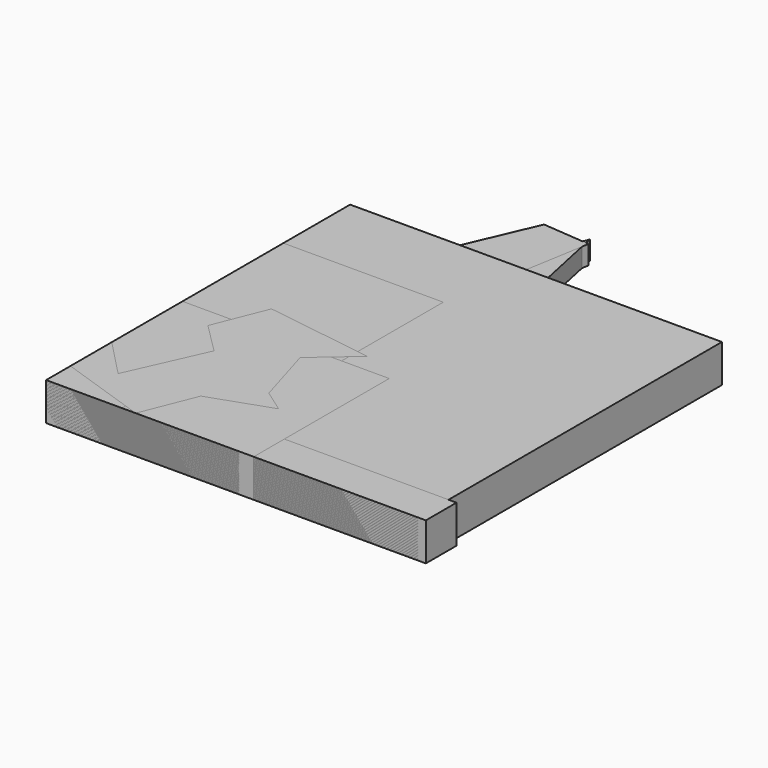
from build123d import *

# Parameters (mm, degrees)
PAD_DEPTH               = 10
PAD001_DEPTH            = 10
PAD002_DEPTH            = 10
PAD003_DEPTH            = 5
PAD004_DEPTH            = 5
PAD005_DEPTH            = 5
SKETCH006_W             = 17.330512
SKETCH006_H             = 14.988543
PAD006_DEPTH            = 10
PAD007_DEPTH            = 5
BODY006_PLACEMENT_ANGLE = 180
PAD008_DEPTH            = 5
PAD014_DEPTH            = 10
PAD011_DEPTH            = 10
PAD012_DEPTH            = 10
PAD013_DEPTH            = 10
PAD009_DEPTH            = 10
PAD010_DEPTH            = 10
PAD015_DEPTH            = 10
PAD016_DEPTH            = 10
PAD017_DEPTH            = 10
SKETCH018_W             = 100.185661
SKETCH018_H             = 10.112617
PAD025_DEPTH            = 10
SKETCH030_W             = 29.960587
SKETCH030_H             = 30.027189
PAD024_DEPTH            = 10
SKETCH021_W             = 49.87516
SKETCH021_H             = 40.159164
PAD019_DEPTH            = 10
SKETCH019_W             = 50.923298
SKETCH019_H             = 49.592381
PAD029_DEPTH            = 10
SKETCH025_W             = 54.766457
SKETCH025_H             = 44.701084
PAD023_DEPTH            = 10
SKETCH028_W             = 29.960587
SKETCH028_H             = 30.027189
PAD027_DEPTH            = 10
SKETCH022_W             = 98.089394
SKETCH022_H             = 100.252266
PAD030_DEPTH            = 10
SKETCH026_W             = 49.87516
SKETCH026_H             = 40.159164
PAD022_DEPTH            = 10
SKETCH027_W             = 98.089394
SKETCH027_H             = 100.252266
PAD026_DEPTH            = 10
SKETCH029_W             = 29.960587
SKETCH029_H             = 30.027189
PAD021_DEPTH            = 10
SKETCH024_W             = 100.185661
SKETCH024_H             = 10.112617
PAD031_DEPTH            = 10
SKETCH031_W             = 42.188831
SKETCH031_H             = 78.241425
PAD018_DEPTH            = 10
SKETCH023_W             = 54.766457
SKETCH023_H             = 44.701084
PAD028_DEPTH            = 10
SKETCH020_W             = 20.015697
SKETCH020_H             = 44.976456
PAD020_DEPTH            = 10
PAD032_DEPTH            = 10
PAD035_DEPTH            = 5
PAD033_DEPTH            = 5
PAD037_DEPTH            = 5
PAD036_DEPTH            = 5
PAD034_DEPTH            = 5
PAD038_DEPTH            = 5


with BuildPart() as body:
    # Sketch → Pad (new body)
    with BuildSketch(Plane.XY):
        Polygon((18.167238, -26.824047), (31.159077, -8.870737), (29.571237, 13.23329), (14.146687, 29.145313), (-7.897255, 31.41992), (-26.245984, 18.992798), (-32.313925, -2.321266), (-23.261822, -22.549184), (-3.325253, -32.226088), align=None)
    extrude(amount=PAD_DEPTH)


with BuildPart() as body_1:
    # Body placement: moved
    add(body.part.moved(Location((32.313925, 32.226088, 0))))


with BuildPart() as body001:
    # Sketch001 → Pad001 (new body)
    with BuildSketch(Plane.XY):
        Polygon((-14.146512, 4.385867), (-14.444172, -3.274984), (-10.871528, -10.058305), (-4.385867, -14.146512), (3.274984, -14.444172), (10.058305, -10.871528), (14.146512, -4.385867), (14.444172, 3.274984), (10.871528, 10.058305), (4.385867, 14.146512), (-3.274984, 14.444172), (-10.058305, 10.871528), align=None)
    extrude(amount=PAD001_DEPTH)


with BuildPart() as body001_1:
    # Body001 placement: moved
    add(body001.part.moved(Location((14.444172, 14.444172, 0))))


with BuildPart() as body002:
    # Sketch002 → Pad002 (new body)
    with BuildSketch(Plane.XY):
        Polygon((5.168737, 19.66088), (-4.125931, 19.882535), (-12.707188, 16.304545), (-19.091257, 9.545577), (-22.174274, 0.774318), (-21.423157, -8.492602), (-16.967783, -16.652849), (-9.578524, -22.29544), (-0.533051, -24.444722), (8.60459, -22.729063), (16.25442, -17.445117), (21.093714, -9.506527), (22.285712, -0.285945), (19.624308, 8.622305), (13.569683, 15.677905), align=None)
    extrude(amount=PAD002_DEPTH)


with BuildPart() as body002_1:
    # Body002 placement: moved
    add(body002.part.moved(Location((22.174274, 24.444722, 0))))


with BuildPart() as body003:
    # Sketch003 → Pad003 (new body)
    with BuildSketch(Plane.XY):
        Polygon((7.399518, 7.664609), (-10.337505, 2.575866), (2.937987, -10.240475), align=None)
    extrude(amount=PAD003_DEPTH)


with BuildPart() as body003_1:
    # Body003 placement: moved
    add(body003.part.moved(Location((10.337505, 10.240475, 0))))


with BuildPart() as body004:
    # Sketch004 → Pad004 (new body)
    with BuildSketch(Plane.XY):
        Polygon((0, 10.25955), (-8.885031, -5.129775), (8.885031, -5.129775), align=None)
    extrude(amount=PAD004_DEPTH)


with BuildPart() as body004_1:
    # Body004 placement: moved
    add(body004.part.moved(Location((8.885031, 5.129775, 0))))


with BuildPart() as body005:
    # Sketch005 → Pad005 (new body)
    with BuildSketch(Plane.XY):
        Polygon((8.917991, 0), (13.337694, 8.722222), (4.077364, 17.140703), (-8.024202, 17.140703), (-17.600224, 1.776977), (-4.762044, -10.850743), (0.920433, -10.850743), align=None)
    extrude(amount=PAD005_DEPTH)


with BuildPart() as body005_1:
    # Body005 placement: moved
    add(body005.part.moved(Location((17.600224, 10.850743, 0))))


with BuildPart() as body006:
    # Sketch006 → Pad006 (new body)
    with BuildSketch(Plane.XY):
        with Locations((-1.850273, 0.820157)):
            Rectangle(SKETCH006_W, SKETCH006_H)
    extrude(amount=PAD006_DEPTH)

    # Sketch007 → Pad007 (join)
    with BuildSketch(Plane.XY):
        Polygon((10.019646, 10.457861), (4.573891, 15.162398), (-2.314561, 17.24522), (-9.454634, 16.346186), (-15.611746, 12.620748), (-19.721276, 6.713068), (-21.072648, -0.355362), (-19.432198, -7.362347), (-15.083575, -13.096315), (-8.778695, -16.565812), (-1.60773, -17.170929), (5.189397, -14.807036), (10.437399, -9.882873), (13.22885, -3.24987), (13.081082, 3.945064), align=None)
    extrude(amount=PAD007_DEPTH)


with BuildPart() as body006_1:
    # Body006 placement: moved
    add(body006.part.moved(Location((13.22885, 17.24522, 0))).rotate(Axis((13.22885, 17.24522, 0), (0, 0, 1)), BODY006_PLACEMENT_ANGLE))


with BuildPart() as body007:
    # Sketch008 → Pad008 (new body)
    with BuildSketch(Plane.XY):
        Polygon((7.007695, -11.784118), (11.767051, -2.863674), (10.374145, 7.150596), (3.361021, 14.433582), (-6.593548, 16.203429), (-15.687253, 11.784118), (-20.446609, 2.863674), (-19.053703, -7.150596), (-12.040579, -14.433582), (-2.086011, -16.203429), align=None)
    extrude(amount=PAD008_DEPTH)


with BuildPart() as body007_1:
    # Body007 placement: moved
    add(body007.part.moved(Location((20.446609, 16.203429, 0))))


with BuildPart() as body008:
    # Sketch010 → Pad014 (new body)
    with BuildSketch(Plane.XY):
        Polygon((0, 0), (-11.495134, 26.22936), (-28.462859, 3.159603), align=None)
    extrude(amount=PAD014_DEPTH)


with BuildPart() as body008_1:
    # Body008 placement: moved
    add(body008.part.moved(Location((28.462859, 0, 0))))


with BuildPart() as body009:
    # Sketch012 → Pad011 (new body)
    with BuildSketch(Plane.XY):
        Polygon((0, 0), (27.073405, 30.548265), (-12.918871, 38.720389), align=None)
    extrude(amount=PAD011_DEPTH)


with BuildPart() as body009_1:
    # Body009 placement: moved
    add(body009.part.moved(Location((12.918871, 0, 0))))


with BuildPart() as body010:
    # Sketch013 → Pad012 (new body)
    with BuildSketch(Plane.XY):
        Polygon((0, 0), (-29.562009, -6.185213), (-9.424453, -28.694057), align=None)
    extrude(amount=PAD012_DEPTH)


with BuildPart() as body010_1:
    # Body010 placement: moved
    add(body010.part.moved(Location((29.562009, 28.694057, 0))))


with BuildPart() as body011:
    # Sketch014 → Pad013 (new body)
    with BuildSketch(Plane.XY):
        Polygon((0, 0), (-13.660303, -63.548782), (48.204708, -43.604561), align=None)
    extrude(amount=PAD013_DEPTH)


with BuildPart() as body011_1:
    # Body011 placement: moved
    add(body011.part.moved(Location((13.660303, 63.548782, 0))))


with BuildPart() as body012:
    # Sketch009 → Pad009 (new body)
    with BuildSketch(Plane.XY):
        Polygon((0, 0), (45.987872, 5.648683), (18.102033, 42.651007), align=None)
    extrude(amount=PAD009_DEPTH)


with BuildPart() as body013:
    # Sketch011 → Pad010 (new body)
    with BuildSketch(Plane.XY):
        Polygon((0, 0), (8.205842, -24.465275), (25.290471, -5.12617), align=None)
    extrude(amount=PAD010_DEPTH)


with BuildPart() as body013_1:
    # Body013 placement: moved
    add(body013.part.moved(Location((0, 24.465275, 0))))


with BuildPart() as body014:
    # Sketch015 → Pad015 (new body)
    with BuildSketch(Plane.XY):
        Polygon((0, 0), (-31.835562, 11.811761), (-26.147066, -21.664525), align=None)
    extrude(amount=PAD015_DEPTH)


with BuildPart() as body014_1:
    # Body014 placement: moved
    add(body014.part.moved(Location((31.835562, 21.664525, 0))))


with BuildPart() as body015:
    # Sketch016 → Pad016 (new body)
    with BuildSketch(Plane.XY):
        Polygon((0, 0), (-31.835562, 11.811761), (-26.147066, -21.664525), align=None)
    extrude(amount=PAD016_DEPTH)


with BuildPart() as body015_1:
    # Body015 placement: moved
    add(body015.part.moved(Location((31.835562, 21.664525, 0))))


with BuildPart() as body016:
    # Sketch017 → Pad017 (new body)
    with BuildSketch(Plane.XY):
        Polygon((0, 0), (-31.835562, 11.811761), (-26.147066, -21.664525), align=None)
    extrude(amount=PAD017_DEPTH)


with BuildPart() as body016_1:
    # Body016 placement: moved
    add(body016.part.moved(Location((31.835562, 21.664525, 0))))


with BuildPart() as body017:
    # Sketch018 → Pad025 (new body)
    with BuildSketch(Plane.XY):
        with Locations((50.09283, 5.056309)):
            Rectangle(SKETCH018_W, SKETCH018_H)
    extrude(amount=PAD025_DEPTH)


with BuildPart() as body018:
    # Sketch030 → Pad024 (new body)
    with BuildSketch(Plane.XY):
        with Locations((14.980294, 15.013594)):
            Rectangle(SKETCH030_W, SKETCH030_H)
    extrude(amount=PAD024_DEPTH)


with BuildPart() as body019:
    # Sketch021 → Pad019 (new body)
    with BuildSketch(Plane.XY):
        with Locations((24.93758, 20.079582)):
            Rectangle(SKETCH021_W, SKETCH021_H)
    extrude(amount=PAD019_DEPTH)


with BuildPart() as body020:
    # Sketch019 → Pad029 (new body)
    with BuildSketch(Plane.XY):
        with Locations((25.461649, 24.79619)):
            Rectangle(SKETCH019_W, SKETCH019_H)
    extrude(amount=PAD029_DEPTH)


with BuildPart() as body021:
    # Sketch025 → Pad023 (new body)
    with BuildSketch(Plane.XY):
        with Locations((27.383228, 22.350542)):
            Rectangle(SKETCH025_W, SKETCH025_H)
    extrude(amount=PAD023_DEPTH)


with BuildPart() as body022:
    # Sketch028 → Pad027 (new body)
    with BuildSketch(Plane.XY):
        with Locations((14.980294, 15.013594)):
            Rectangle(SKETCH028_W, SKETCH028_H)
    extrude(amount=PAD027_DEPTH)


with BuildPart() as body023:
    # Sketch022 → Pad030 (new body)
    with BuildSketch(Plane.XY):
        with Locations((49.044697, 50.126133)):
            Rectangle(SKETCH022_W, SKETCH022_H)
    extrude(amount=PAD030_DEPTH)


with BuildPart() as body024:
    # Sketch026 → Pad022 (new body)
    with BuildSketch(Plane.XY):
        with Locations((24.93758, 20.079582)):
            Rectangle(SKETCH026_W, SKETCH026_H)
    extrude(amount=PAD022_DEPTH)


with BuildPart() as body025:
    # Sketch027 → Pad026 (new body)
    with BuildSketch(Plane.XY):
        with Locations((49.044697, 50.126133)):
            Rectangle(SKETCH027_W, SKETCH027_H)
    extrude(amount=PAD026_DEPTH)


with BuildPart() as body026:
    # Sketch029 → Pad021 (new body)
    with BuildSketch(Plane.XY):
        with Locations((14.980294, 15.013594)):
            Rectangle(SKETCH029_W, SKETCH029_H)
    extrude(amount=PAD021_DEPTH)


with BuildPart() as body027:
    # Sketch024 → Pad031 (new body)
    with BuildSketch(Plane.XY):
        with Locations((50.09283, 5.056309)):
            Rectangle(SKETCH024_W, SKETCH024_H)
    extrude(amount=PAD031_DEPTH)


with BuildPart() as body028:
    # Sketch031 → Pad018 (new body)
    with BuildSketch(Plane.XY):
        with Locations((21.094416, 39.120712)):
            Rectangle(SKETCH031_W, SKETCH031_H)
    extrude(amount=PAD018_DEPTH)


with BuildPart() as body029:
    # Sketch023 → Pad028 (new body)
    with BuildSketch(Plane.XY):
        with Locations((27.383228, 22.350542)):
            Rectangle(SKETCH023_W, SKETCH023_H)
    extrude(amount=PAD028_DEPTH)


with BuildPart() as body030:
    # Sketch020 → Pad020 (new body)
    with BuildSketch(Plane.XY):
        with Locations((10.007848, 22.488228)):
            Rectangle(SKETCH020_W, SKETCH020_H)
    extrude(amount=PAD020_DEPTH)


with BuildPart() as body031:
    # Sketch034 → Pad032 (new body)
    with BuildSketch(Plane.XY):
        Polygon((15.854637, -11.861474), (10.963326, 4.559358), (21.44471, 13.643224), (-7.204406, 17.835772), (-12.794459, 3.860602), (-4.75875, -4.175127), (-13.842596, -24.439129), (-23.625217, -14.307127), (-23.625217, -27.932922), (0, -35.968647), (5.722634, -21.644093), (21.794092, -16.054022), align=None)
    extrude(amount=PAD032_DEPTH)


with BuildPart() as body031_1:
    # Body031 placement: moved
    add(body031.part.moved(Location((23.625217, 35.968647, 0))))


with BuildPart() as body032:
    # Sketch036 → Pad035 (new body)
    with BuildSketch(Plane.XY):
        Polygon((16.407789, 0), (14.20999, 9.292012), (7.459578, 7.408173), (-1.802612, 16.670362), (-17.344254, 4.268449), (-13.576584, -9.860312), (5.104784, -3.266889), (11.855196, -6.092639), align=None)
    extrude(amount=PAD035_DEPTH)


with BuildPart() as body032_1:
    # Body032 placement: moved
    add(body032.part.moved(Location((17.344254, 9.860312, 0))))


with BuildPart() as body033:
    # Sketch032 → Pad033 (new body)
    with BuildSketch(Plane.XY):
        Polygon((13.408981, 0), (28.432302, 15.739498), (5.023878, 37.401024), (-37.251019, 23.775227), (-33.058464, -15.355267), (11.662088, -24.439129), (34.37175, -12.56023), align=None)
    extrude(amount=PAD033_DEPTH)


with BuildPart() as body033_1:
    # Body033 placement: moved
    add(body033.part.moved(Location((37.251019, 24.439129, 0))))


with BuildPart() as body034:
    # Sketch035 → Pad037 (new body)
    with BuildSketch(Plane.XY):
        Polygon((13.758363, 0), (12.01147, 9.80005), (-4.409369, 11.896324), (-28.516535, 11.896324), (-29.564672, 0), (-24.673361, -3.476364), (-26.769636, -16.752783), (-8.601904, -11.162712), (4.325122, -16.054022), (16.5534, -8.717056), (24.239746, -11.512094), (21.44471, -2.777609), align=None)
    extrude(amount=PAD037_DEPTH)


with BuildPart() as body034_1:
    # Body034 placement: moved
    add(body034.part.moved(Location((29.564672, 16.752783, 0))))


with BuildPart() as body035:
    # Sketch033 → Pad036 (new body)
    with BuildSketch(Plane.XY):
        Polygon((9.915189, -22.692234), (22.842228, -12.56023), (19.348436, -4.524508), (8.517671, 8.05315), (7.120159, 29.365294), (6.421397, 49.279919), (2.578223, 67.447647), (-3.361225, 52.074955), (-6.505643, 30.064049), (-15.93887, -12.909612), (-39.696674, -42.257477), (-11.39694, -59.027687), (20.745955, -46.450031), align=None)
    extrude(amount=PAD036_DEPTH)


with BuildPart() as body035_1:
    # Body035 placement: moved
    add(body035.part.moved(Location((39.696674, 59.027687, 0))))


with BuildPart() as body036:
    # Sketch038 → Pad034 (new body)
    with BuildSketch(Plane.XY):
        Polygon((0, 23.425846), (7.120159, 10.498806), (22.492847, 9.450668), (8.168289, -2.078853), (14.107744, -16.752783), (0, -10.114574), (-11.04756, -18.150301), (-7.903162, 0), (-19.083288, 10.498806), (-6.505643, 10.498806), align=None)
    extrude(amount=PAD034_DEPTH)


with BuildPart() as body036_1:
    # Body036 placement: moved
    add(body036.part.moved(Location((19.083288, 18.150301, 0))))


with BuildPart() as body037:
    # Sketch039 → Pad038 (new body)
    with BuildSketch(Plane.XY):
        Polygon((22.492847, -7.66892), (-6.156262, -9.066438), (-30.61281, -2.078853), (-51.575577, 19.932053), (-45.286743, 58.713158), (-20.830187, 115.661995), (-8.252522, 114.613869), (-13.493215, 83.519096), (-22.926462, 43.689846), (-13.842596, 16.438253), (10.613945, 9.80005), (38.564285, 1.764321), (33.323612, -10.114574), align=None)
    extrude(amount=PAD038_DEPTH)


with BuildPart() as body037_1:
    # Body037 placement: moved
    add(body037.part.moved(Location((51.575577, 10.114574, 0))))


solid = Compound([body_1.part, body001_1.part, body002_1.part, body003_1.part, body004_1.part, body005_1.part, body006_1.part, body007_1.part, body008_1.part, body009_1.part, body010_1.part, body011_1.part, body012.part, body013_1.part, body014_1.part, body015_1.part, body016_1.part, body017.part, body018.part, body019.part, body020.part, body021.part, body022.part, body023.part, body024.part, body025.part, body026.part, body027.part, body028.part, body029.part, body030.part, body031_1.part, body032_1.part, body033_1.part, body034_1.part, body035_1.part, body036_1.part, body037_1.part])
